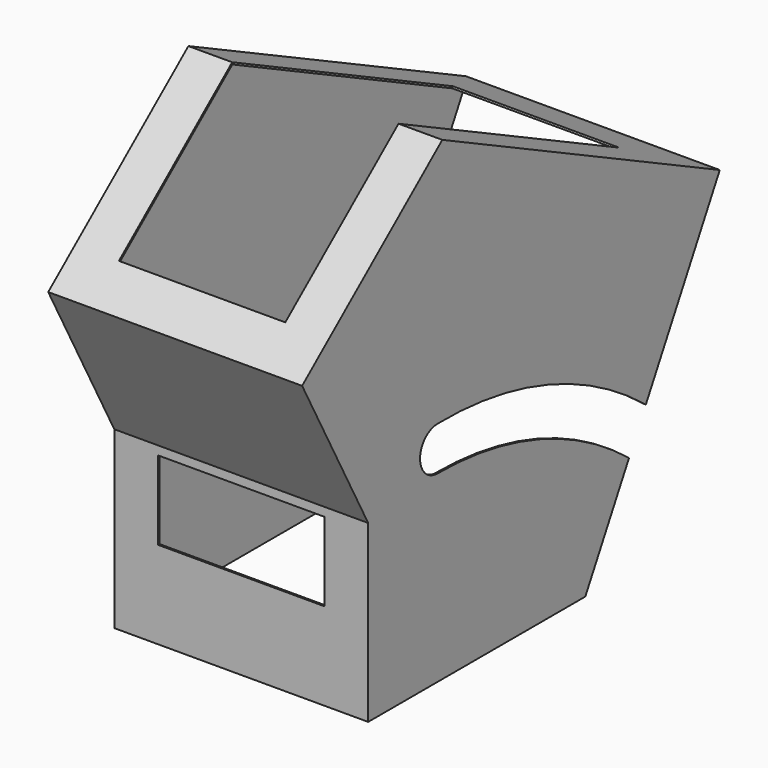
from build123d import *

# Parameters (mm, degrees)
F1_DEPTH  = 368.3
F2_T      = -2.54
F3_W      = 241.3
F3_H      = 444.5
F4_DEPTH  = 25.4
F5_W      = 241.3
F5_H      = 266.7
F6_DEPTH  = 25.4
F7_W      = 241.3
F7_H      = 114.3
F8_DEPTH  = 25.4
F10_DEPTH = 25.4


with BuildPart() as f1:
    # F0 (on Right) → F1 (new body)
    with BuildSketch(Plane.YZ):
        Polygon((-224.4092495818, -219.5814980744), (169.2907504182, -219.5814980744), (413.1046041976, 226.0851988026), (-90.0800447439, 469.1132816853), (-344.2729837605, 258.357523154), (-224.4092495818, 34.4185019256), align=None)
    extrude(amount=F1_DEPTH)

    # F2
    f2_openings = [f1.faces().sort_by_distance(p)[0] for p in [
        (184.15, 291.197677, 3.25185),
        (184.15, -27.55925, -219.581498),
    ]]
    offset(amount=F2_T, openings=f2_openings, kind=Kind.INTERSECTION)

    # F3 (on face) → F4 (cut)
    with BuildSketch(Plane(origin=(0, 166.6783638091, 345.1041253529), x_dir=(1, 0, 0), z_dir=(0, 0.4349106709, 0.9004736023))):
        with Locations((184.15, -62.8870744342)):
            Rectangle(F3_W, F3_H)
    extrude(amount=-F4_DEPTH, mode=Mode.SUBTRACT)

    # F5 (on face) → F6 (cut)
    with BuildSketch(Plane(origin=(0, -267.194897424, 322.2642965476), x_dir=(1, 0, 0), z_dir=(0, -0.6382669853, 0.7698150788))):
        with Locations((184.15, 96.7245433025)):
            Rectangle(F5_W, F5_H)
    extrude(amount=-F6_DEPTH, mode=Mode.SUBTRACT)

    # F7 (on face) → F8 (cut)
    with BuildSketch(Plane.XZ.offset(224.4092495818)):
        with Locations((184.15, -35.4314980744)):
            Rectangle(F7_W, F7_H)
    extrude(amount=-F8_DEPTH, mode=Mode.SUBTRACT)

    # F9 (on face) → F10 (cut)
    with BuildSketch(Plane.YZ.offset(368.3)):
        with BuildLine():
            ThreePointArc((-98.6126363277, 46.6085672379), (85.2821775, 15.4665672824), (248.5302528965, -74.7398215894))
            Line((248.5302528965, -74.7398215894), (279.006984619, -19.0314844798))
            ThreePointArc((279.006984619, -19.0314844798), (101.5154343461, 78.6343708282), (-98.6126363277, 110.1085672379))
            ThreePointArc((-98.6126363277, 110.1085672379), (-130.3626363277, 78.3585672379), (-98.6126363277, 46.6085672379))
        make_face()
    extrude(amount=-F10_DEPTH, mode=Mode.SUBTRACT)


solid = f1.part
